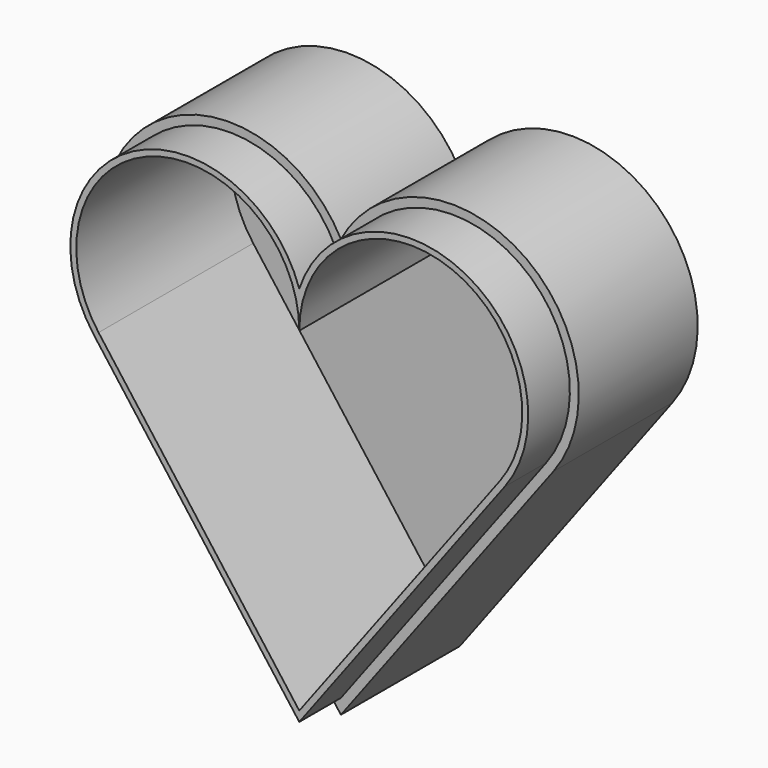
from build123d import *

# Parameters (mm, degrees)
F1_DEPTH = 1
F2_DEPTH = 20
F3_DEPTH = 27


with BuildPart() as f1:
    # F0 (on Front) → F1 (new body)
    with BuildSketch(Plane.XZ):
        with BuildLine():
            ThreePointArc((28.6, -10.2), (24.1268833673, 14.3422452914), (0, 8))
            ThreePointArc((0, 8), (-24.1268833673, 14.3422452914), (-28.6, -10.2))
            Line((-28.6, -10.2), (0, -48.3333333333))
            Line((0, -48.3333333333), (28.6, -10.2))
        make_face()
        with BuildLine():
            ThreePointArc((-27.64, -9.48), (-22.3177005427, 14.0032588624), (0, 4.9638694584))
            ThreePointArc((0, 4.9638694584), (22.3177005427, 14.0032588624), (27.64, -9.48))
            Line((27.64, -9.48), (0, -46.3333333333))
            Line((0, -46.3333333333), (-27.64, -9.48))
        make_face(mode=Mode.SUBTRACT)
        with BuildLine():
            ThreePointArc((27.64, -9.48), (22.3177005427, 14.0032588624), (0, 4.9638694584))
            ThreePointArc((0, 4.9638694584), (-22.3177005427, 14.0032588624), (-27.64, -9.48))
            Line((-27.64, -9.48), (0, -46.3333333333))
            Line((0, -46.3333333333), (27.64, -9.48))
        make_face()
        with BuildLine():
            ThreePointArc((-27, -9), (-19.7434164903, 14.2302494708), (0, 0))
            ThreePointArc((0, 0), (19.7434164903, 14.2302494708), (27, -9))
            Line((27, -9), (0, -45))
            Line((0, -45), (-27, -9))
        make_face(mode=Mode.SUBTRACT)
        with BuildLine():
            ThreePointArc((27, -9), (19.7434164903, 14.2302494708), (0, 0))
            ThreePointArc((0, 0), (-19.7434164903, 14.2302494708), (-27, -9))
            Line((-27, -9), (0, -45))
            Line((0, -45), (27, -9))
        make_face()
    extrude(amount=F1_DEPTH)

    # F0 (on Front) → F2 (join)
    with BuildSketch(Plane.XZ):
        with BuildLine():
            ThreePointArc((28.6, -10.2), (24.1268833673, 14.3422452914), (0, 8))
            ThreePointArc((0, 8), (-24.1268833673, 14.3422452914), (-28.6, -10.2))
            Line((-28.6, -10.2), (0, -48.3333333333))
            Line((0, -48.3333333333), (28.6, -10.2))
        make_face()
        with BuildLine():
            ThreePointArc((-27.64, -9.48), (-22.3177005427, 14.0032588624), (0, 4.9638694584))
            ThreePointArc((0, 4.9638694584), (22.3177005427, 14.0032588624), (27.64, -9.48))
            Line((27.64, -9.48), (0, -46.3333333333))
            Line((0, -46.3333333333), (-27.64, -9.48))
        make_face(mode=Mode.SUBTRACT)
    extrude(amount=F2_DEPTH)

    # F0 (on Front) → F3 (join)
    with BuildSketch(Plane.XZ):
        with BuildLine():
            ThreePointArc((27.64, -9.48), (22.3177005427, 14.0032588624), (0, 4.9638694584))
            ThreePointArc((0, 4.9638694584), (-22.3177005427, 14.0032588624), (-27.64, -9.48))
            Line((-27.64, -9.48), (0, -46.3333333333))
            Line((0, -46.3333333333), (27.64, -9.48))
        make_face()
        with BuildLine():
            ThreePointArc((-27, -9), (-19.7434164903, 14.2302494708), (0, 0))
            ThreePointArc((0, 0), (19.7434164903, 14.2302494708), (27, -9))
            Line((27, -9), (0, -45))
            Line((0, -45), (-27, -9))
        make_face(mode=Mode.SUBTRACT)
    extrude(amount=F3_DEPTH)


solid = f1.part
